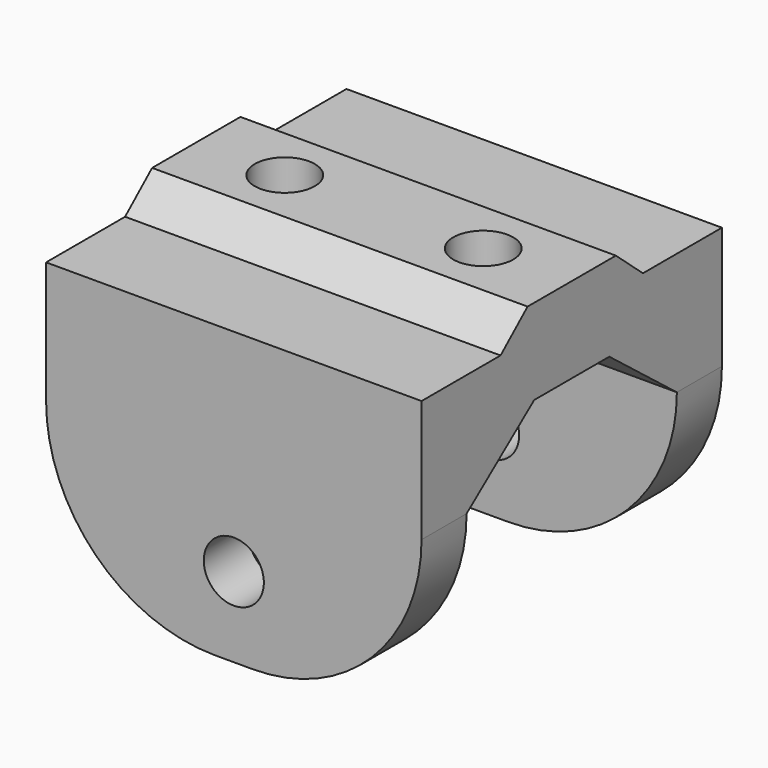
from build123d import *

# Parameters (mm, degrees)
SKETCH_W        = 20
SKETCH_H        = 20
SKETCH_R        = 1.6
PAD_DEPTH       = 3
PAD001_DEPTH    = 20
SKETCH002_R     = 1.6
POCKET_DEPTH    = 4.561
SKETCH003_W     = 20
SKETCH003_H     = 3
PAD002_DEPTH    = 12.5
SKETCH005_R     = 1.6
POCKET002_DEPTH = 20.001
POCKET003_DEPTH = 20.001
SKETCH006_W     = 20
SKETCH006_H     = 4.5
PAD003_DEPTH    = 3.5
POCKET004_DEPTH = 20.001
SKETCH008_R     = 2.75
POCKET005_DEPTH = 12.501
PAD004_DEPTH    = 20
SKETCH010_R     = 1.6
POCKET006_DEPTH = 17.061
FILLET_R        = 9


with BuildPart() as part:
    # Sketch → Pad (new body)
    with BuildSketch(Plane.XY):
        Rectangle(SKETCH_W, SKETCH_H)
        with Locations((-5.286, 0)):
            Circle(SKETCH_R, mode=Mode.SUBTRACT)
        with Locations((5.286, 0)):
            Circle(SKETCH_R, mode=Mode.SUBTRACT)
    extrude(amount=PAD_DEPTH)

    # Sketch001 (on Face1 of Pad) → Pad001 (join)
    with BuildSketch(Plane(origin=(0, 10, 0), x_dir=(-1, 0, 0), z_dir=(0, 1, 0))):
        Polygon((0, 3), (-4.74, 3), (-2.94, 4.56), (2.94, 4.56), (4.74, 3), align=None)
    extrude(amount=-PAD001_DEPTH)

    # Sketch002 (on Face4 of Pad001) → Pocket (cut, through all)
    with BuildSketch(Plane(origin=(0, 0, 0), x_dir=(1, 0, 0), z_dir=(0, 0, -1))):
        with Locations((-5.286, 0)):
            Circle(SKETCH002_R)
        with Locations((5.286, 0)):
            Circle(SKETCH002_R)
    extrude(amount=-POCKET_DEPTH, mode=Mode.SUBTRACT)

    # Sketch003 (on Face4 of Pocket) → Pad002 (join)
    with BuildSketch(Plane(origin=(0, 0, 0), x_dir=(1, 0, 0), z_dir=(0, 0, -1))):
        with Locations((0, 8.5)):
            Rectangle(SKETCH003_W, SKETCH003_H)
        with Locations((0, -8.5)):
            Rectangle(SKETCH003_W, SKETCH003_H)
    extrude(amount=PAD002_DEPTH)

    # Sketch005 → Pocket002 (cut, through all)
    with BuildSketch(Plane(origin=(0, 10, 0), x_dir=(-1, 0, 0), z_dir=(0, 1, 0))):
        with Locations((0, -8.25)):
            Circle(SKETCH005_R)
    extrude(amount=-POCKET002_DEPTH, mode=Mode.SUBTRACT)

    # Pocket002 Face22 → Pocket003 (cut, through all)
    with BuildSketch(Plane(origin=(0, -10, 3.719063), x_dir=(-1, 0, 0), z_dir=(0, -1, 0))):
        Polygon((-4.74, 0.719063), (-2.94, -0.840937), (2.94, -0.840937), (4.74, 0.719063), (0, 0.719063), align=None)
    extrude(amount=-POCKET003_DEPTH, mode=Mode.SUBTRACT)

    # Sketch006 (on Face11 of Pocket003) → Pad003 (join)
    with BuildSketch(Plane(origin=(0, 0, 0), x_dir=(1, 0, 0), z_dir=(0, 0, -1))):
        with Locations((0, 4.75)):
            Rectangle(SKETCH006_W, SKETCH006_H)
        with Locations((0, -4.75)):
            Rectangle(SKETCH006_W, SKETCH006_H)
    extrude(amount=PAD003_DEPTH)

    # Sketch007 (on Face17 of Pad003) → Pocket004 (cut, through all)
    with BuildSketch(Plane(origin=(-10, 0, 0), x_dir=(0, -1, 0), z_dir=(-1, 0, 0))):
        Polygon((-2.5, 0), (-7, -3.5), (-2.5, -3.5), align=None)
        Polygon((7, -3.5), (2.5, 0), (2.5, -3.5), align=None)
    extrude(amount=-POCKET004_DEPTH, mode=Mode.SUBTRACT)

    # Sketch008 (on Face12 of Pocket004) → Pocket005 (cut, through all)
    with BuildSketch(Plane(origin=(0, 0, 0), x_dir=(1, 0, 0), z_dir=(0, 0, -1))):
        with Locations((-5.286, 0)):
            Circle(SKETCH008_R)
        with Locations((5.286, 0)):
            Circle(SKETCH008_R)
    extrude(amount=POCKET005_DEPTH, mode=Mode.SUBTRACT)

    # Sketch009 (on Face3 of Pocket005) → Pad004 (join)
    with BuildSketch(Plane(origin=(-10, 0, 0), x_dir=(0, -1, 0), z_dir=(-1, 0, 0))):
        Polygon((0, 3), (-4.74, 3), (-2.94, 4.56), (2.94, 4.56), (4.74, 3), align=None)
    extrude(amount=-PAD004_DEPTH)

    # Sketch010 (on Face37 of Pad004) → Pocket006 (cut, through all)
    with BuildSketch(Plane.XY.offset(4.56)):
        with Locations((5.286, 0)):
            Circle(SKETCH010_R)
        with Locations((-5.286, 0)):
            Circle(SKETCH010_R)
    extrude(amount=-POCKET006_DEPTH, mode=Mode.SUBTRACT)

    # Fillet
    fillet_edges = [part.edges().sort_by_distance(p)[0] for p in [
        (-10, -8.5, -12.5),
        (10, 8.5, -12.5),
        (-10, 8.5, -12.5),
        (10, -8.5, -12.5),
    ]]
    fillet(fillet_edges, radius=FILLET_R)


solid = part.part
